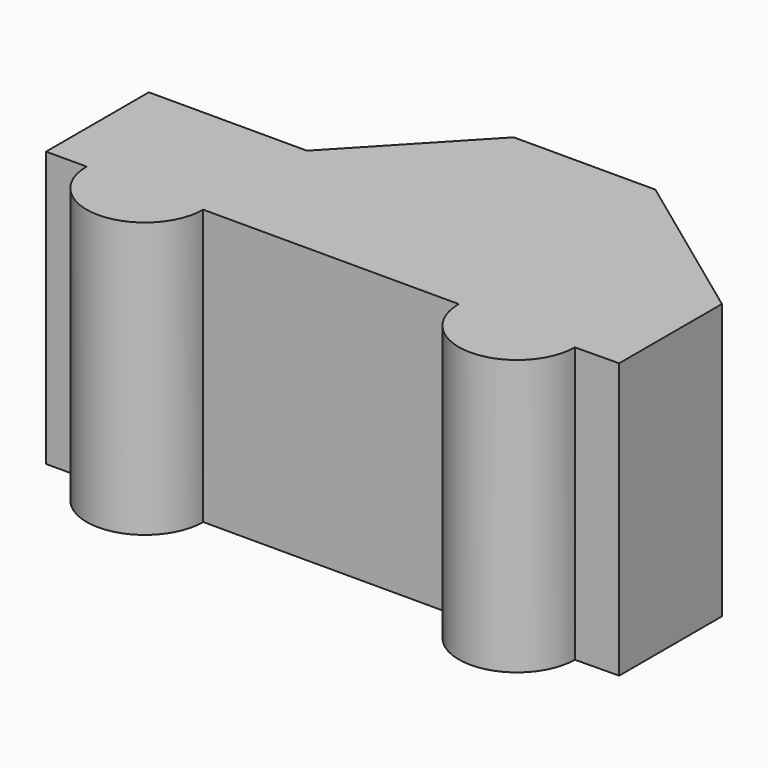
from build123d import *

# Parameters (mm, degrees)
F1_DEPTH = 299.72


with BuildPart() as f1:
    # F0 (on Top) → F1 (new body)
    with BuildSketch(Plane.XY):
        with BuildLine():
            Line((-111.383964, 50.262654), (-283.667104, 50.262654))
            Line((-283.667104, 50.262654), (-283.667104, -89.717354))
            Line((-283.667104, -89.717354), (-239.49016, -89.717354))
            ThreePointArc((-239.49016, -89.717354), (-175.99016, -26.217354), (-112.49016, -89.717354))
            Line((-112.49016, -89.717354), (166.092987, -89.717354))
            ThreePointArc((166.092987, -89.717354), (229.592987, -26.217354), (293.092987, -89.717354))
            ThreePointArc((293.092987, -89.717354), (293.092302, -90.012305), (293.090247, -90.30725))
            Line((293.090247, -90.30725), (340.859073, -89.717354))
            Line((340.859073, -89.717354), (340.859073, 50.262654))
            Line((340.859073, 50.262654), (164.986756, 179.474962))
            Line((164.986756, 179.474962), (10.649873, 179.474962))
            Line((10.649873, 179.474962), (-111.383964, 50.262654))
        make_face()
        with BuildLine():
            ThreePointArc((-112.49016, -89.717354), (-175.99016, -26.217354), (-239.49016, -89.717354))
            ThreePointArc((-239.49016, -89.717354), (-175.99016, -153.217354), (-112.49016, -89.717354))
        make_face()
        with BuildLine():
            ThreePointArc((293.092987, -89.717354), (229.592987, -26.217354), (166.092987, -89.717354))
            ThreePointArc((166.092987, -89.717354), (229.298036, -153.216669), (293.090247, -90.30725))
            ThreePointArc((293.090247, -90.30725), (293.092302, -90.012305), (293.092987, -89.717354))
        make_face()
    extrude(amount=F1_DEPTH)


solid = f1.part
